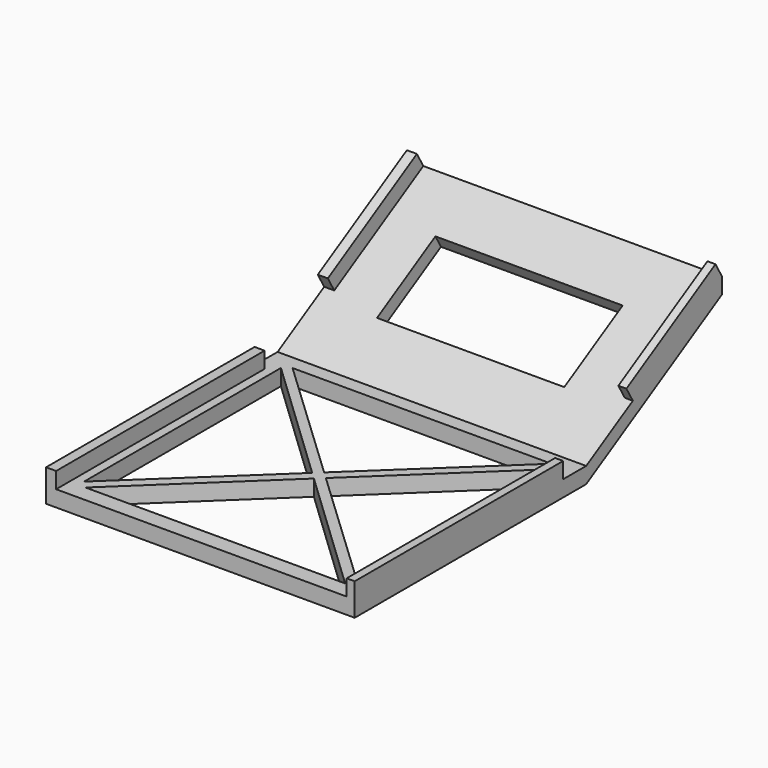
from build123d import *

# Parameters (mm, degrees)
F1_DEPTH  = 60.96
F2_W      = 1.5875
F2_H      = 32.4230269723
F3_DEPTH  = 3.175
F4_W      = 1.5875
F4_H      = 32.4230269723
F5_DEPTH  = 3.175
F7_DEPTH  = 60.961
F8_W      = 54.0470709093
F8_H      = 51.1124171317
F9_DEPTH  = 3.176
F10_W     = 1.5875
F10_H     = 25.4
F11_DEPTH = 3.175
F12_W     = 1.5875
F12_H     = 25.4
F13_DEPTH = 3.175
F15_DEPTH = 3.175
F17_DEPTH = 3.175
F18_W     = 36.9880022481
F18_H     = 16.6493579745
F19_DEPTH = 19.5074859241
F20_DEPTH = 0.396875
F21_DEPTH = 0.396875
F22_DEPTH = 19.05
F23_DEPTH = 19.05


with BuildPart() as f1:
    # F0 (on Right) → F1 (new body)
    with BuildSketch(Plane.YZ):
        Polygon((-32.4230269723, -0.8245654169), (24.7269730277, -0.8245654169), (68.72106354, 24.5754345831), (68.72106354, 27.7504345831), (24.7269730277, 2.3504345831), (-32.4230269723, 2.3504345831), align=None)
    extrude(amount=F1_DEPTH)

    # F2 (on face) → F3 (join)
    with BuildSketch(Plane.XY.offset(2.3504345831)):
        with Locations((60.16625, -16.2115134861)):
            Rectangle(F2_W, F2_H)
    extrude(amount=F3_DEPTH)

    # F4 (on face) → F5 (join)
    with BuildSketch(Plane.XY.offset(2.3504345831)):
        with Locations((0.79375, -16.2115134861)):
            Rectangle(F4_W, F4_H)
    extrude(amount=F5_DEPTH)

    # F6 (on face) → F7 (cut, through all)
    with BuildSketch(Plane.YZ.offset(60.96)):
        Polygon((68.72106354, 27.7504345831), (58.240683562, 21.6995843816), (58.240683562, 18.5245843816), (68.72106354, 24.5754345831), align=None)
    extrude(amount=-F7_DEPTH, mode=Mode.SUBTRACT)

    # F8 (on face) → F9 (cut, through all)
    with BuildSketch(Plane.XY.offset(2.3504345831)):
        with Locations((30.776332831, -3.5890638828)):
            Rectangle(F8_W, F8_H)
    extrude(amount=-F9_DEPTH, mode=Mode.SUBTRACT)

    # F10 (on face) → F11 (join)
    with BuildSketch(Plane(origin=(0, 5.1639752275, -8.944267463), x_dir=(1, 0, 0), z_dir=(0, -0.5, 0.8660254038))):
        with Locations((60.16625, 48.5877036892)):
            Rectangle(F10_W, F10_H)
    extrude(amount=F11_DEPTH)

    # F12 (on face) → F13 (join)
    with BuildSketch(Plane(origin=(0, 5.1639752275, -8.944267463), x_dir=(1, 0, 0), z_dir=(0, -0.5, 0.8660254038))):
        with Locations((0.79375, 48.5877036892)):
            Rectangle(F12_W, F12_H)
    extrude(amount=F13_DEPTH)

    # F14 (on face) → F15 (join)
    with BuildSketch(Plane.XY.offset(2.3504345831)):
        Polygon((57.7998682857, -27.7678910643), (5.1683941856, 21.967144683), (3.7527973764, 21.967144683), (3.7527973764, 20.8684690297), (56.4532540739, -29.1452724487), (57.7998682857, -29.1452724487), align=None)
    extrude(amount=-F15_DEPTH)

    # F16 (on face) → F17 (join)
    with BuildSketch(Plane.XY.offset(2.3504345831)):
        Polygon((56.3214682043, 21.967144683), (3.7527973764, -27.7384221554), (3.7527973764, -29.1452724487), (5.1683941856, -29.1452724487), (57.7998682857, 20.8684690297), (57.7998682857, 21.967144683), align=None)
    extrude(amount=-F17_DEPTH)

    # F18 (on face) → F19 (cut, through all)
    with BuildSketch(Plane(origin=(0, 5.1639752275, -8.944267463), x_dir=(1, 0, 0), z_dir=(0, -0.5, 0.8660254038))):
        with Locations((30.2279754542, 42.3330701888)):
            Rectangle(F18_W, F18_H)
    extrude(amount=-F19_DEPTH, mode=Mode.SUBTRACT)

    # F20 (add): a face of the model
    f20_faces = [f1.faces().sort_by_distance(p)[0] for p in [
        (1.5875, 46.4484109339, 16.7243997101),
    ]]
    extrude(f20_faces, amount=F20_DEPTH)

    # F21 (add): a face of the model
    f21_faces = [f1.faces().sort_by_distance(p)[0] for p in [
        (1.5875, -16.2115134861, 3.9379345831),
    ]]
    extrude(f21_faces, amount=F21_DEPTH)

    # F22 (add): a face of the model
    f22_faces = [f1.faces().sort_by_distance(p)[0] for p in [
        (0.9921875, 0, 3.9379345831),
    ]]
    extrude(f22_faces, amount=F22_DEPTH)

    # F23 (add): a face of the model
    f23_faces = [f1.faces().sort_by_distance(p)[0] for p in [
        (60.16625, 0, 3.9379345831),
    ]]
    extrude(f23_faces, amount=F23_DEPTH)


solid = f1.part
